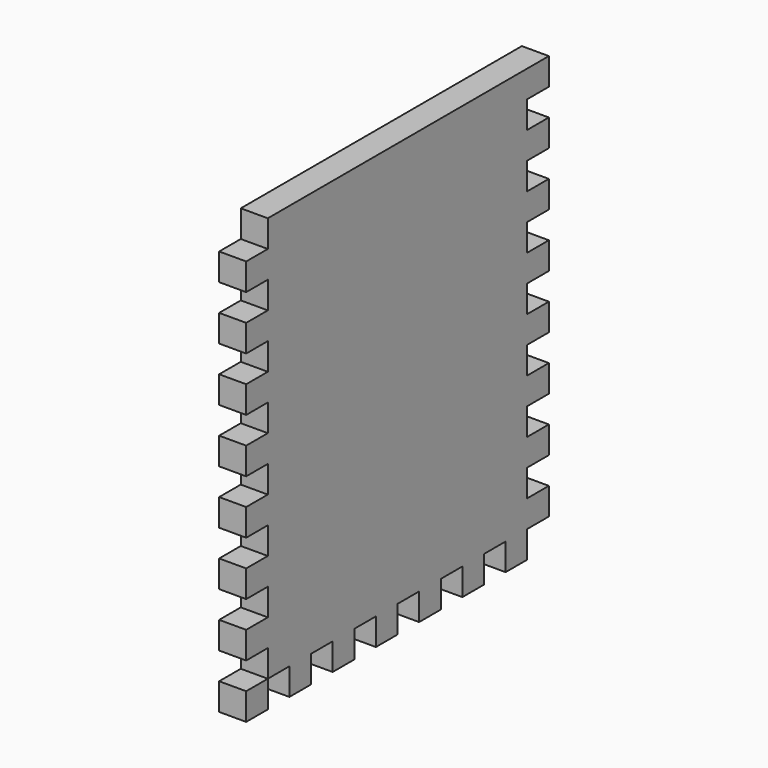
from build123d import *

# Parameters (mm, degrees)
F0_W     = 10
F0_H     = 10
F1_DEPTH = 10


with BuildPart() as f1:
    # F0 (on Right) → F1 (new body)
    with BuildSketch(Plane.YZ):
        with Locations((-65, -75)):
            Rectangle(F0_W, F0_H)
        with Locations((55, -75)):
            Rectangle(F0_W, F0_H)
        with Locations((65, -65)):
            Rectangle(F0_W, F0_H)
        Polygon((50, -70), (60, -70), (60, -60), (60, -50), (60, -40), (60, -30), (60, -20), (60, -10), (60, 0), (60, 10), (60, 20), (60, 30), (60, 40), (60, 50), (60, 60), (60, 70), (50, 70), (40, 70), (30, 70), (20, 70), (10, 70), (0, 70), (-10, 70), (-20, 70), (-30, 70), (-40, 70), (-50, 70), (-60, 70), (-60, 60), (-60, 50), (-60, 40), (-60, 30), (-60, 20), (-60, 10), (-60, 0), (-60, -10), (-60, -20), (-60, -30), (-60, -40), (-60, -50), (-60, -60), (-60, -70), (-50, -70), (-40, -70), (-30, -70), (-20, -70), (-10, -70), (0, -70), (10, -70), (20, -70), (30, -70), (40, -70), align=None)
        with Locations((35, -75)):
            Rectangle(F0_W, F0_H)
        with Locations((65, -45)):
            Rectangle(F0_W, F0_H)
        with Locations((15, -75)):
            Rectangle(F0_W, F0_H)
        with Locations((65, -25)):
            Rectangle(F0_W, F0_H)
        with Locations((-5, -75)):
            Rectangle(F0_W, F0_H)
        with Locations((65, -5)):
            Rectangle(F0_W, F0_H)
        with Locations((-25, -75)):
            Rectangle(F0_W, F0_H)
        with Locations((65, 15)):
            Rectangle(F0_W, F0_H)
        with Locations((-45, -75)):
            Rectangle(F0_W, F0_H)
        with Locations((65, 35)):
            Rectangle(F0_W, F0_H)
        with Locations((65, 55)):
            Rectangle(F0_W, F0_H)
        with Locations((-65, -55)):
            Rectangle(F0_W, F0_H)
        with Locations((55, 75)):
            Rectangle(F0_W, F0_H)
        with Locations((65, 75)):
            Rectangle(F0_W, F0_H)
        with Locations((-65, -35)):
            Rectangle(F0_W, F0_H)
        with Locations((45, 75)):
            Rectangle(F0_W, F0_H)
        with Locations((35, 75)):
            Rectangle(F0_W, F0_H)
        with Locations((-65, -15)):
            Rectangle(F0_W, F0_H)
        with Locations((25, 75)):
            Rectangle(F0_W, F0_H)
        with Locations((15, 75)):
            Rectangle(F0_W, F0_H)
        with Locations((-65, 5)):
            Rectangle(F0_W, F0_H)
        with Locations((5, 75)):
            Rectangle(F0_W, F0_H)
        with Locations((-5, 75)):
            Rectangle(F0_W, F0_H)
        with Locations((-65, 25)):
            Rectangle(F0_W, F0_H)
        with Locations((-15, 75)):
            Rectangle(F0_W, F0_H)
        with Locations((-25, 75)):
            Rectangle(F0_W, F0_H)
        with Locations((-65, 45)):
            Rectangle(F0_W, F0_H)
        with Locations((-35, 75)):
            Rectangle(F0_W, F0_H)
        with Locations((-45, 75)):
            Rectangle(F0_W, F0_H)
        with Locations((-65, 65)):
            Rectangle(F0_W, F0_H)
        with Locations((-55, 75)):
            Rectangle(F0_W, F0_H)
    extrude(amount=F1_DEPTH)


solid = f1.part
